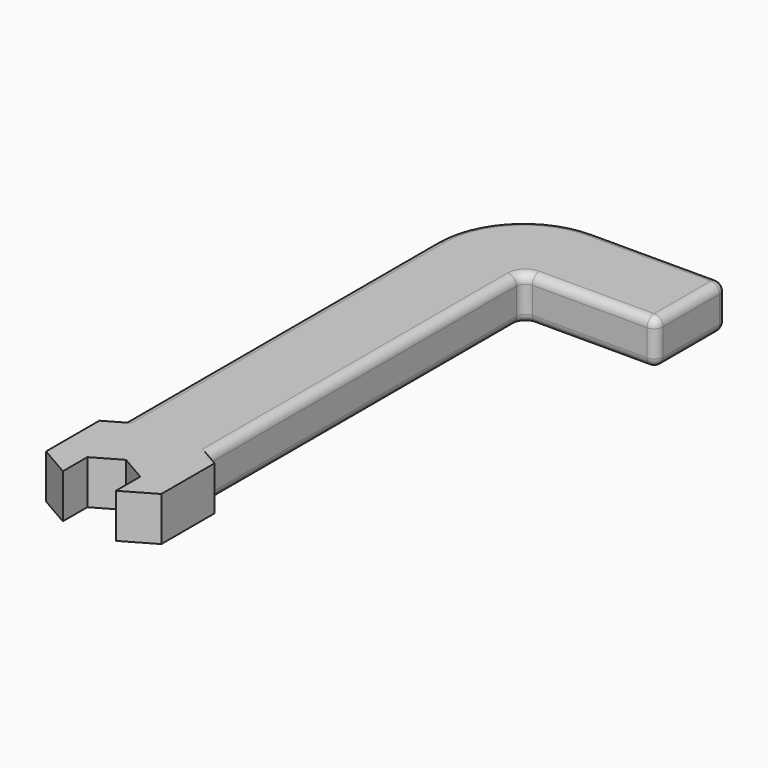
from build123d import *

# Parameters (mm, degrees)
F0_W     = 10
F0_H     = 5
F4_DEPTH = 5
F6_DEPTH = 5
F7_R     = 1
F8_R     = 1


with BuildPart() as f2:
    # F2: sweep along a path in F1
    with BuildLine(Plane.XY) as f2_path:
        Line((0, 0), (0, 45))
        ThreePointArc((0, 45), (1.4644660941, 48.5355339059), (5, 50))
        Line((5, 50), (20, 50))
    # F0 (on Front) → F2 (sweep)
    with BuildSketch(Plane.XZ):
        Rectangle(F0_W, F0_H)
    sweep(path=f2_path.line)

    # F3 (on face) → F4 (join, through all)
    with BuildSketch(Plane.XY.offset(2.5)):
        Polygon((0, -12.0238676125), (6.5331561742, -8.2519481366), (6.5331561742, -0.708109185), (0, 3.0638102908), (-6.5331561742, -0.708109185), (-6.5331561742, -8.2519481366), align=None)
    extrude(amount=-F4_DEPTH)

    # F5 (on face) → F6 (cut, through all)
    with BuildSketch(Plane.XY.offset(2.5)):
        Polygon((0, -12.0238676125), (3, -10.2918168049), (3, -6.8277151897), (0, -5.0956643822), (-3, -6.8277151897), (-3, -10.2918168049), align=None)
    extrude(amount=-F6_DEPTH, mode=Mode.SUBTRACT)

    # F7
    f7_edges = [f2.edges().sort_by_distance(p)[0] for p in [
        (20, 55, 0),
        (20, 45, 0),
        (5, 45, 0),
    ]]
    fillet(f7_edges, radius=F7_R)

    # F8
    f8_edges = [f2.edges().sort_by_distance(p)[0] for p in [
        (20, 50, 2.5),
        (20, 50, -2.5),
    ]]
    fillet(f8_edges, radius=F8_R)


solid = f2.part
